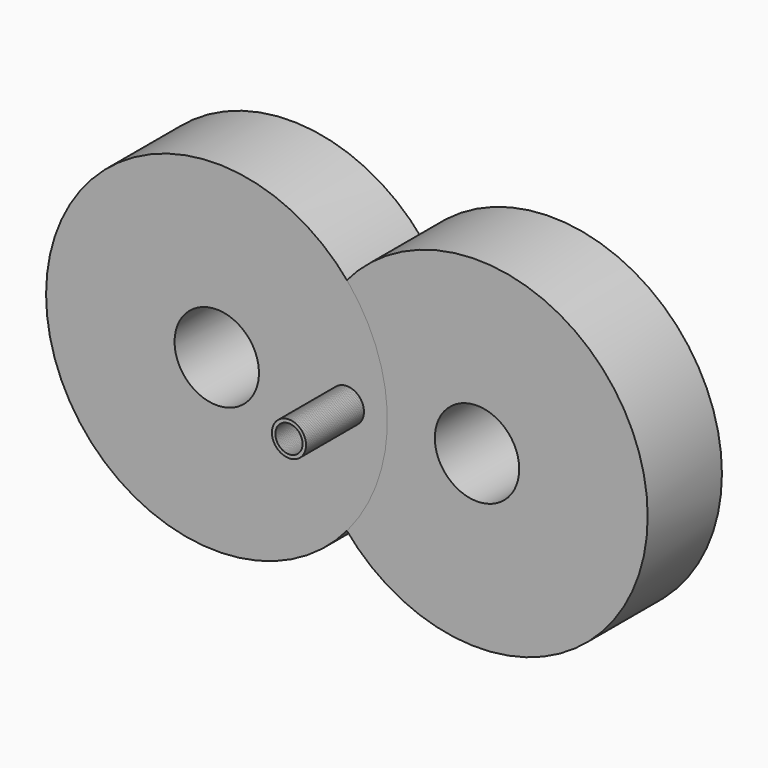
from build123d import *

# Parameters (mm, degrees)
F0_R     = 46.716786
F0_R_2   = 11.552514
F1_DEPTH = 25.4
F2_R     = 4.6733
F2_R_2   = 3.725102
F3_DEPTH = 19.812
F4_COUNT = 2


with BuildPart() as f1:
    # F0 (on Front) → F1 (new body)
    with BuildSketch(Plane.XZ):
        Circle(F0_R)
        Circle(F0_R_2, mode=Mode.SUBTRACT)
    extrude(amount=F1_DEPTH)

    # F2 (on face) → F3 (join)
    with BuildSketch(Plane.XZ.offset(25.4)):
        with Locations((-35.621658, 0)):
            Circle(F2_R)
        with Locations((-35.621658, 0)):
            Circle(F2_R_2, mode=Mode.SUBTRACT)
    extrude(amount=F3_DEPTH)


with BuildPart() as f4_1:
    # F4: instance of F1
    add(f1.part.rotate(Axis((-35.621658, -25.4, 0), (0, 1, 0)), 1 * 360 / F4_COUNT))


solid = Compound([f1.part, f4_1.part])
